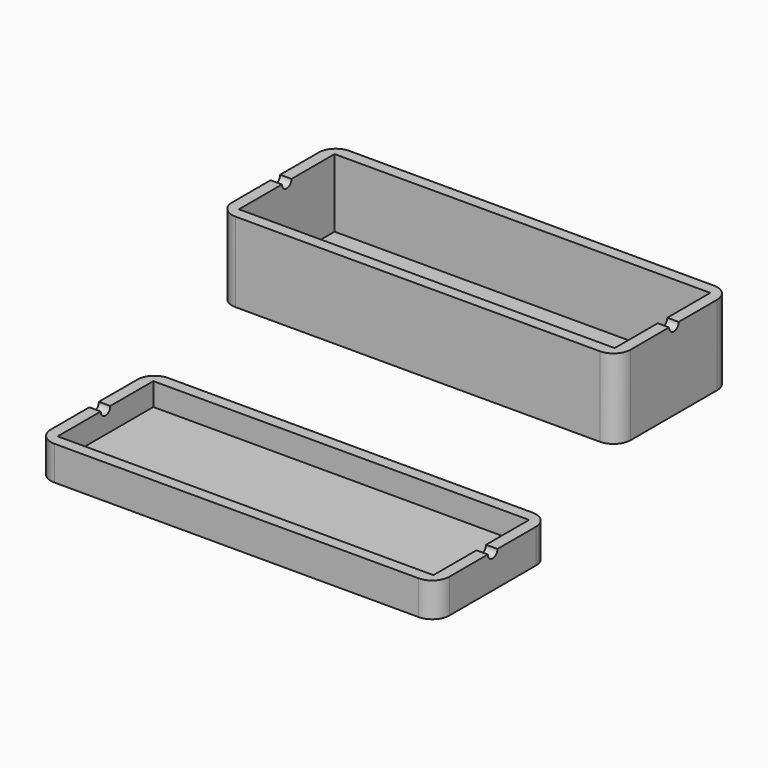
from build123d import *

# Parameters (mm, degrees)
F0_W      = 66
F0_H      = 21
F1_DEPTH  = 2
F0_H_2    = 2
F2_DEPTH  = 14
F4_DEPTH  = 80
F5_R      = 3
F6_DEPTH  = 2
F7_DEPTH  = 6
F8_R      = 3
F10_DEPTH = 80


with BuildPart() as f1:
    # F0 (on Top) → F1 (new body)
    with BuildSketch(Plane.XY):
        with Locations((-34.0602138638, 23.0645144358)):
            Rectangle(F0_W, F0_H)
    extrude(amount=F1_DEPTH)

    # F0 (on Top) → F2 (join)
    with BuildSketch(Plane.XY):
        Polygon((-67.0602138638, 12.5645144358), (-67.0602138638, 33.5645144358), (-67.0602138638, 35.5645144358), (-69.0602138638, 35.5645144358), (-69.0602138638, 10.5645144358), (-67.0602138638, 10.5645144358), align=None)
        with Locations((-34.0602138638, 11.5645144358)):
            Rectangle(F0_W, F0_H_2)
        Polygon((-1.0602138638, 35.5645144358), (-1.0602138638, 33.5645144358), (-1.0602138638, 12.5645144358), (-1.0602138638, 10.5645144358), (0.9397861362, 10.5645144358), (0.9397861362, 35.5645144358), align=None)
        with Locations((-34.0602138638, 34.5645144358)):
            Rectangle(F0_W, F0_H_2)
    extrude(amount=F2_DEPTH)

    # F3 (on face) → F4 (cut)
    with BuildSketch(Plane.YZ.offset(0.9397861362)):
        with BuildLine():
            ThreePointArc((22.0145144358, 14), (23.0645144358, 12.95), (24.1145144358, 14))
            Line((24.1145144358, 14), (22.0145144358, 14))
        make_face()
    extrude(amount=-F4_DEPTH, mode=Mode.SUBTRACT)

    # F5
    f5_edges = [f1.edges().sort_by_distance(p)[0] for p in [
        (-69.060214, 35.564514, 7),
        (-69.060214, 10.564514, 7),
        (0.939786, 35.564514, 7),
        (0.939786, 10.564514, 7),
    ]]
    fillet(f5_edges, radius=F5_R)


with BuildPart() as f6:
    # F0 (on Top) → F6 (new body)
    with BuildSketch(Plane.XY):
        with Locations((-20.9418926388, -33.1294797361)):
            Rectangle(F0_W, F0_H)
    extrude(amount=F6_DEPTH)

    # F0 (on Top) → F7 (join)
    with BuildSketch(Plane.XY):
        with Locations((-20.9418926388, -21.6294797361)):
            Rectangle(F0_W, F0_H_2)
        Polygon((-53.9418926388, -43.6294797361), (-53.9418926388, -22.6294797361), (-53.9418926388, -20.6294797361), (-55.9418926388, -20.6294797361), (-55.9418926388, -45.6294797361), (-53.9418926388, -45.6294797361), align=None)
        with Locations((-20.9418926388, -44.6294797361)):
            Rectangle(F0_W, F0_H_2)
        Polygon((12.0581073612, -20.6294797361), (12.0581073612, -22.6294797361), (12.0581073612, -43.6294797361), (12.0581073612, -45.6294797361), (14.0581073612, -45.6294797361), (14.0581073612, -20.6294797361), align=None)
    extrude(amount=F7_DEPTH)

    # F8
    f8_edges = [f6.edges().sort_by_distance(p)[0] for p in [
        (-55.941893, -45.62948, 3),
        (-55.941893, -20.62948, 3),
        (14.058107, -20.62948, 3),
        (14.058107, -45.62948, 3),
    ]]
    fillet(f8_edges, radius=F8_R)

    # F9 (on face) → F10 (cut)
    with BuildSketch(Plane(origin=(-55.9418926388, 0, 0), x_dir=(0, -1, 0), z_dir=(-1, 0, 0))):
        with BuildLine():
            ThreePointArc((32.0794797361, 6), (33.1294797361, 4.95), (34.1794797361, 6))
            Line((34.1794797361, 6), (32.0794797361, 6))
        make_face()
    extrude(amount=-F10_DEPTH, mode=Mode.SUBTRACT)


solid = Compound([f1.part, f6.part])
